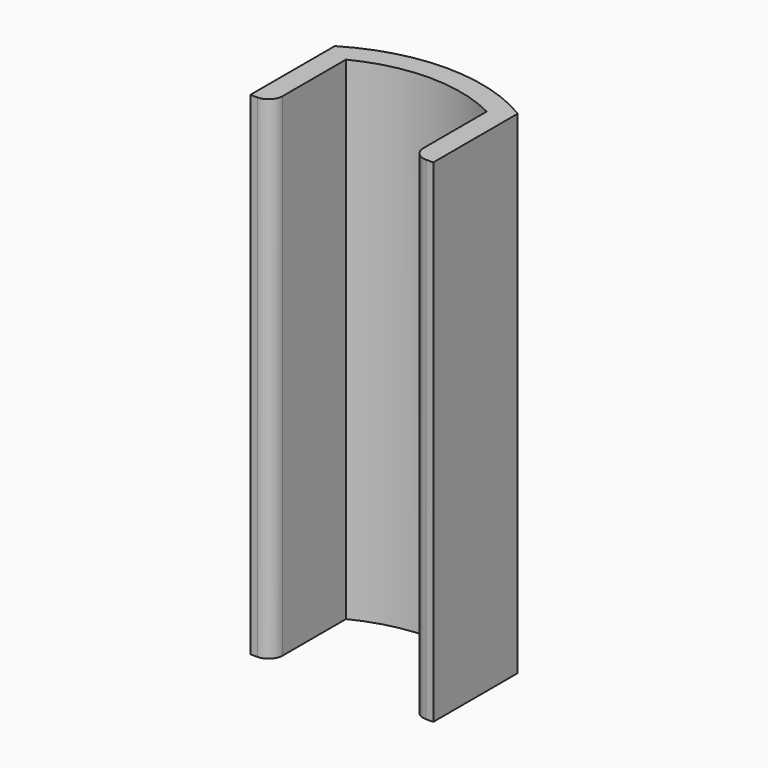
from build123d import *

# Parameters (mm, degrees)
F1_DEPTH = 70
F2_R     = 2


with BuildPart() as f1:
    # F0 (on Top) → F1 (new body)
    with BuildSketch(Plane.XY):
        with BuildLine():
            Line((13, 0), (13, 15))
            ThreePointArc((13, 15), (0, 18.645843), (-13, 15))
            Line((-13, 15), (-13, 0))
            Line((-13, 0), (-10, 0))
            Line((-10, 0), (-10, 13.241761))
            ThreePointArc((-10, 13.241761), (0, 15.645843), (10, 13.241761))
            Line((10, 13.241761), (10, 0))
            Line((10, 0), (13, 0))
        make_face()
    extrude(amount=F1_DEPTH)

    # F2
    f2_edges = [f1.edges().sort_by_distance(p)[0] for p in [
        (-10, 0, 35),
        (10, 0, 35),
    ]]
    fillet(f2_edges, radius=F2_R)


solid = f1.part
